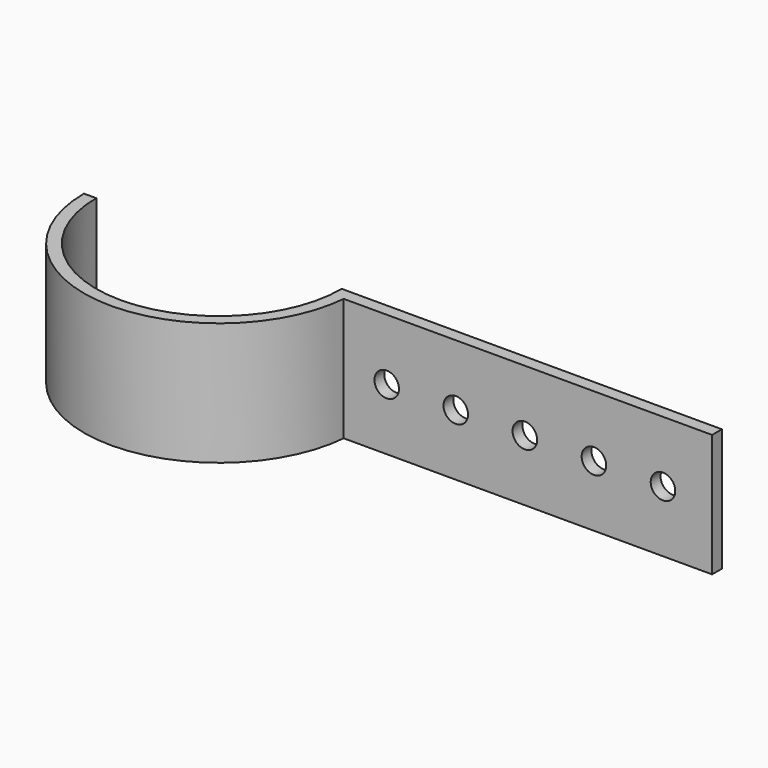
from build123d import *

# Parameters (mm, degrees)
PAD_DEPTH           = 20
SKETCH001_R         = 2
POCKET_DEPTH        = 2.001
LINEARPATTERN_COUNT = 5
LINEARPATTERN_PITCH = 11.25


with BuildPart() as part:
    # Sketch → Pad (new body)
    with BuildSketch(Plane.XY):
        with BuildLine():
            ThreePointArc((-101.908902, 0), (-81.908902, -20), (-61.908902, 0))
            Line((-61.908902, 0), (0, 0))
            Line((0, -2), (0, 0))
            Line((-60, -2), (0, -2))
            ThreePointArc((-103.908902, 0), (-82.909939, -21.977214), (-60, -2))
            Line((-103.908902, 0), (-101.908902, 0))
        make_face()
    extrude(amount=PAD_DEPTH)

    # Sketch001 → Pocket (cut, through all)
    with BuildSketch(Plane.XZ.offset(2)):
        with Locations((-53, 10)):
            Circle(SKETCH001_R)
    pocket = extrude(amount=-POCKET_DEPTH, mode=Mode.SUBTRACT)

    # LinearPattern: Pocket ×5
    with Locations(*[(i * LINEARPATTERN_PITCH, 0, 0) for i in range(1, LINEARPATTERN_COUNT)]):
        add(pocket, mode=Mode.SUBTRACT)


solid = part.part
